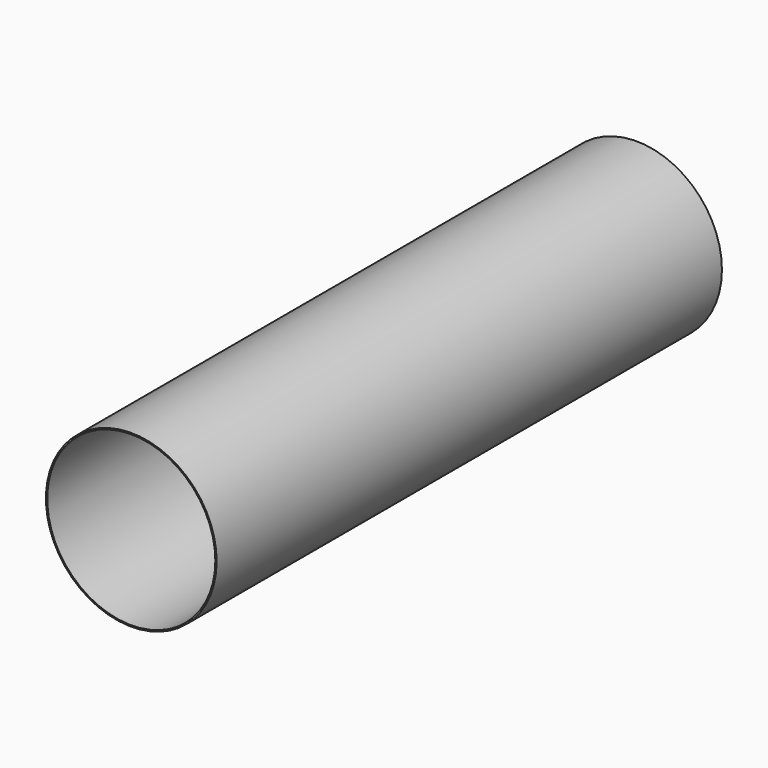
from build123d import *

# Parameters (mm, degrees)
F1_R     = 192.995353
F2_DEPTH = 725
F3_T     = 3


with BuildPart() as f2:
    # F1 (on Front) → F2 (new body, symmetric)
    with BuildSketch(Plane.XZ):
        Circle(F1_R)
    extrude(amount=F2_DEPTH, both=True)

    # F3
    f3_openings = [f2.faces().sort_by_distance(p)[0] for p in [
        (0, -725, 0),
        (0, 725, 0),
    ]]
    offset(amount=F3_T, openings=f3_openings)


solid = f2.part
